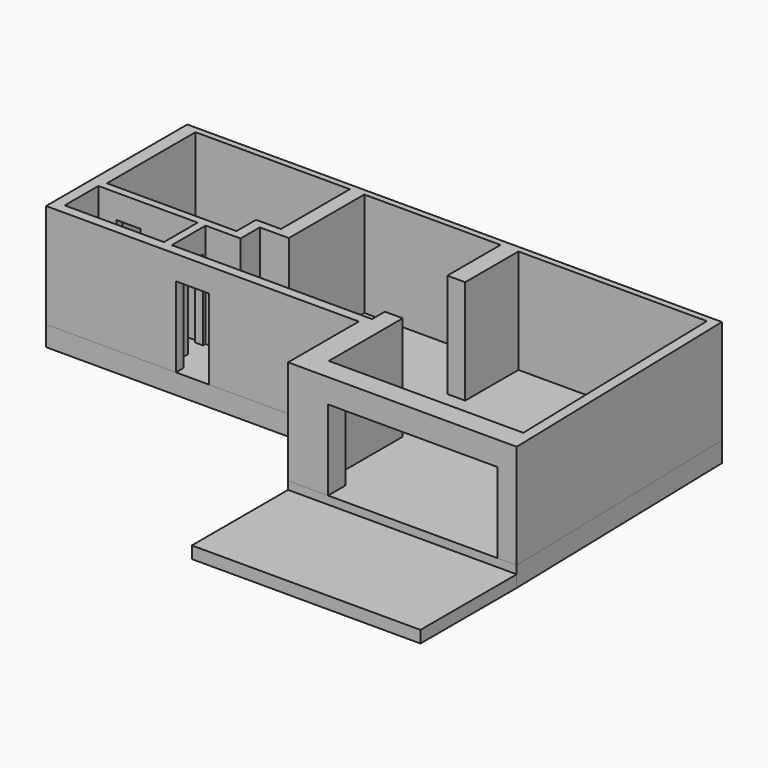
from build123d import *

# Parameters (mm, degrees)
F0_W     = 830.6173386342
F0_H     = 240.7961136216
F0_W_2   = 4226.4206153695
F0_H_2   = 541.4849875656
F0_W_3   = 199.6572122673
F0_H_3   = 467.6724689261
F0_W_4   = 606.0934546265
F0_H_4   = 191.8828443388
F1_DEPTH = 500
F2_DEPTH = 2600
F4_W     = 830.6173386342
F4_H     = 240.7961136216
F4_W_2   = 606.0934546265
F4_H_2   = 191.8828443388
F4_W_3   = 199.6572122673
F4_H_3   = 467.6724689261
F4_W_4   = 4226.4206153695
F4_H_4   = 541.4849875656
F5_DEPTH = 600
F6_W     = 5701.0793440601
F6_H     = 300
F7_DEPTH = 3000


with BuildPart() as f1:
    # F0 (on Top) → F1 (new body)
    with BuildSketch(Plane.XY):
        Polygon((-5631.5483541938, -759.1554373126), (-2393.3489004288, -759.1554373126), (-2393.3489004288, -518.359323691), (-2688.7602510609, -518.359323691), (-2688.7602510609, -9.5210987867), (-2888.4174633282, -9.5210987867), (-2888.4174633282, -513.7642672382), (-5364.3597898582, -513.7642672382), (-5364.3597898582, 536.6092310389), (-4917.0726253467, 536.6092310389), (-4917.0726253467, 728.4920753777), (-5303.8878975014, 728.4920753777), (-5303.8878975014, 3488.4920753777), (-1453.8878975014, 3488.4920753777), (-1453.8878975014, 1338.4920753777), (-2073.8878975014, 1338.4920753777), (-2073.8878975014, 728.4920753777), (-4310.9791707202, 728.4920753777), (-4310.9791707202, 536.6092310389), (-2888.4174633282, 536.6092310389), (-2888.4174633282, 458.1513701394), (-2688.7602510609, 458.1513701394), (-2688.7602510609, 536.6092310389), (-1818.643155098, 536.6092310389), (-1818.643155098, 1136.9112424095), (-1494.0677461723, 1136.9112424095), (-1095.2420802859, 1136.9112424095), (-1095.2420802859, 3488.4920753777), (2304.7579197141, 3488.4920753777), (2304.7579197141, 1828.4920753777), (2749.7579197141, 1828.4920753777), (2749.7579197141, 3488.4920753777), (7449.7579197141, 3488.4920753777), (7599.7579197141, -2422.415971756), (7390.6263395982, -2422.415971756), (7390.6263395982, -2963.9009593216), (7867.9892022931, -2963.9009593216), (7700.3273963928, 3642.9891586304), (-5631.5483541938, 3642.9891586304), align=None)
        with Locations((-1978.0402311117, -638.7573805018)):
            Rectangle(F0_W, F0_H)
        Polygon((-1562.7315617945, -518.359323691), (-1562.7315617945, -759.1554373126), (2166.909858233, -759.1554373126), (2166.909858233, -2963.9009593216), (3164.2057242287, -2963.9009593216), (3164.2057242287, -2422.415971756), (2749.7579197141, -2422.415971756), (2749.7579197141, -118.359323691), (2304.7579197141, -118.359323691), (2304.7579197141, -518.359323691), align=None)
        with Locations((5277.4160319135, -2693.1584655388)):
            Rectangle(F0_W_2, F0_H_2)
        with Locations((-2788.5888571945, 224.3151356764)):
            Rectangle(F0_W_3, F0_H_3)
        with Locations((-4614.0258980334, 632.5506532083)):
            Rectangle(F0_W_4, F0_H_4)
        Polygon((-4917.0726253467, 728.4920753777), (-4310.9791707202, 728.4920753777), (-2073.8878975014, 728.4920753777), (-2073.8878975014, 1338.4920753777), (-1453.8878975014, 1338.4920753777), (-1453.8878975014, 3488.4920753777), (-5303.8878975014, 3488.4920753777), (-5303.8878975014, 728.4920753777), align=None)
        Polygon((-2888.4174633282, -513.7642672382), (-2888.4174633282, -9.5210987867), (-2888.4174633282, 458.1513701394), (-2888.4174633282, 536.6092310389), (-4310.9791707202, 536.6092310389), (-4917.0726253467, 536.6092310389), (-5364.3597898582, 536.6092310389), (-5364.3597898582, -513.7642672382), align=None)
        Polygon((-2688.7602510609, -518.359323691), (-2393.3489004288, -518.359323691), (-1562.7315617945, -518.359323691), (2304.7579197141, -518.359323691), (2304.7579197141, -118.359323691), (2749.7579197141, -118.359323691), (2749.7579197141, -2422.415971756), (3164.2057242287, -2422.415971756), (7390.6263395982, -2422.415971756), (7599.7579197141, -2422.415971756), (7449.7579197141, 3488.4920753777), (2749.7579197141, 3488.4920753777), (2749.7579197141, 1828.4920753777), (2304.7579197141, 1828.4920753777), (2304.7579197141, 3488.4920753777), (-1095.2420802859, 3488.4920753777), (-1095.2420802859, 1136.9112424095), (-1494.0677461723, 1136.9112424095), (-1818.643155098, 1136.9112424095), (-1818.643155098, 536.6092310389), (-2688.7602510609, 536.6092310389), (-2688.7602510609, 458.1513701394), (-2688.7602510609, -9.5210987867), align=None)
    extrude(amount=-F1_DEPTH)


with BuildPart() as f2:
    # F0 (on Top) → F2 (new body)
    with BuildSketch(Plane.XY):
        Polygon((-5631.5483541938, -759.1554373126), (-2393.3489004288, -759.1554373126), (-2393.3489004288, -518.359323691), (-2688.7602510609, -518.359323691), (-2688.7602510609, -9.5210987867), (-2888.4174633282, -9.5210987867), (-2888.4174633282, -513.7642672382), (-5364.3597898582, -513.7642672382), (-5364.3597898582, 536.6092310389), (-4917.0726253467, 536.6092310389), (-4917.0726253467, 728.4920753777), (-5303.8878975014, 728.4920753777), (-5303.8878975014, 3488.4920753777), (-1453.8878975014, 3488.4920753777), (-1453.8878975014, 1338.4920753777), (-2073.8878975014, 1338.4920753777), (-2073.8878975014, 728.4920753777), (-4310.9791707202, 728.4920753777), (-4310.9791707202, 536.6092310389), (-2888.4174633282, 536.6092310389), (-2888.4174633282, 458.1513701394), (-2688.7602510609, 458.1513701394), (-2688.7602510609, 536.6092310389), (-1818.643155098, 536.6092310389), (-1818.643155098, 1136.9112424095), (-1494.0677461723, 1136.9112424095), (-1095.2420802859, 1136.9112424095), (-1095.2420802859, 3488.4920753777), (2304.7579197141, 3488.4920753777), (2304.7579197141, 1828.4920753777), (2749.7579197141, 1828.4920753777), (2749.7579197141, 3488.4920753777), (7449.7579197141, 3488.4920753777), (7599.7579197141, -2422.415971756), (7390.6263395982, -2422.415971756), (7390.6263395982, -2963.9009593216), (7867.9892022931, -2963.9009593216), (7700.3273963928, 3642.9891586304), (-5631.5483541938, 3642.9891586304), align=None)
    extrude(amount=F2_DEPTH)



with BuildPart() as f2b:
    # F0 (on Top) → F2, piece 2 (new body)
    with BuildSketch(Plane.XY):
        Polygon((-1562.7315617945, -518.359323691), (-1562.7315617945, -759.1554373126), (2166.909858233, -759.1554373126), (2166.909858233, -2963.9009593216), (3164.2057242287, -2963.9009593216), (3164.2057242287, -2422.415971756), (2749.7579197141, -2422.415971756), (2749.7579197141, -118.359323691), (2304.7579197141, -118.359323691), (2304.7579197141, -518.359323691), align=None)
    extrude(amount=F2_DEPTH)


with BuildPart() as f2_1:
    add(f2.part)

    add(f2b.part)  # F5 merges F2b
    # F4 (on offset) → F5 (join, through all)
    with BuildSketch(Plane.XY.offset(2000)):
        with Locations((-1978.0402311117, -638.7573805018)):
            Rectangle(F4_W, F4_H)
        with Locations((-4614.0258980334, 632.5506532083)):
            Rectangle(F4_W_2, F4_H_2)
        with Locations((-2788.5888571945, 224.3151356764)):
            Rectangle(F4_W_3, F4_H_3)
        with Locations((5277.4160319135, -2693.1584655388)):
            Rectangle(F4_W_4, F4_H_4)
    extrude(amount=F5_DEPTH)


with BuildPart() as f7:
    # F6 (on face) → F7 (new body)
    with BuildSketch(Plane.XZ.offset(2963.9009593216)):
        with Locations((5017.449530263, -350)):
            Rectangle(F6_W, F6_H)
    extrude(amount=F7_DEPTH)


solid = Compound([f1.part, f2_1.part, f7.part])
